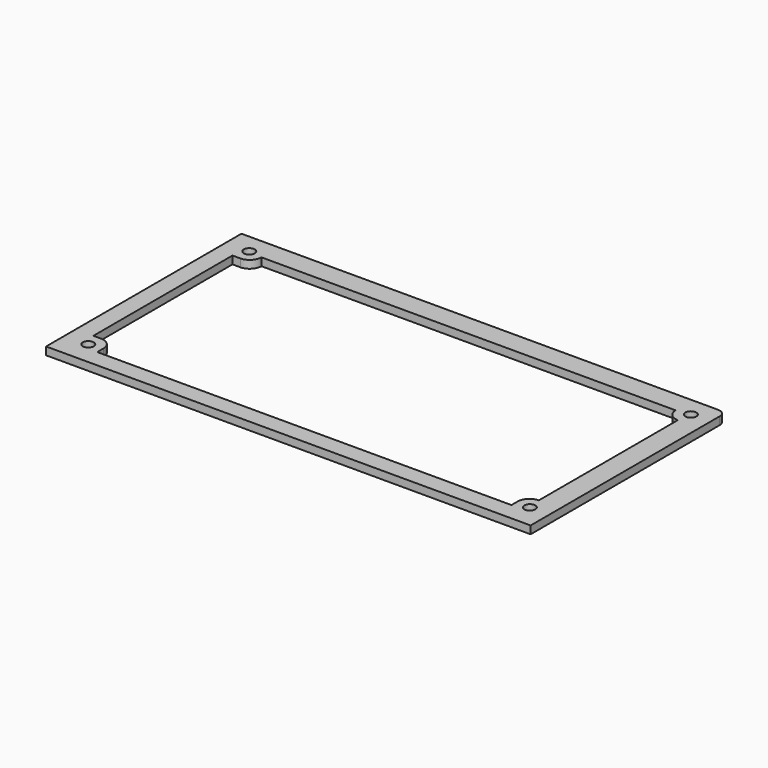
from build123d import *

# Parameters (mm, degrees)
F0_R     = 1.4
F0_W     = 4.5
F0_H     = 4.5
F1_DEPTH = 2
F2_R     = 1.4
F2_W     = 4.5
F2_H     = 4.5
F3_DEPTH = 25


with BuildPart() as f1:
    # F0 (on Top) → F1 (new body)
    with BuildSketch(Plane.XY):
        with BuildLine():
            Line((71.545826, 22.863086), (-72.454174, 22.863086))
            ThreePointArc((-72.454174, 22.863086), (-73.868388, 22.277299), (-74.454174, 20.863086))
            Line((-74.454174, 20.863086), (-74.454174, -59.136914))
            ThreePointArc((-74.454174, -59.136914), (-73.868388, -60.551128), (-72.454174, -61.136914))
            Line((-72.454174, -61.136914), (71.545826, -61.136914))
            ThreePointArc((71.545826, -61.136914), (72.960039, -60.551128), (73.545826, -59.136914))
            Line((73.545826, -59.136914), (73.545826, 20.863086))
            ThreePointArc((73.545826, 20.863086), (72.960039, 22.277299), (71.545826, 22.863086))
        make_face()
        with Locations((-69.454174, -56.136914)):
            Circle(F0_R, mode=Mode.SUBTRACT)
        with Locations((-64.137191, -49.445186)):
            Rectangle(F0_W, F0_H, mode=Mode.SUBTRACT)
        with Locations((-56.137191, -49.445186)):
            Rectangle(F0_W, F0_H, mode=Mode.SUBTRACT)
        with Locations((-64.204174, -41.886914)):
            Rectangle(F0_W, F0_H, mode=Mode.SUBTRACT)
        with Locations((-56.204174, -41.886914)):
            Rectangle(F0_W, F0_H, mode=Mode.SUBTRACT)
        with Locations((-48.137191, -49.445186)):
            Rectangle(F0_W, F0_H, mode=Mode.SUBTRACT)
        with Locations((-40.137191, -49.445186)):
            Rectangle(F0_W, F0_H, mode=Mode.SUBTRACT)
        with Locations((-48.204174, -41.886914)):
            Rectangle(F0_W, F0_H, mode=Mode.SUBTRACT)
        with Locations((-40.204174, -41.886914)):
            Rectangle(F0_W, F0_H, mode=Mode.SUBTRACT)
        with Locations((-32.137191, -49.445186)):
            Rectangle(F0_W, F0_H, mode=Mode.SUBTRACT)
        with Locations((-24.137191, -49.445186)):
            Rectangle(F0_W, F0_H, mode=Mode.SUBTRACT)
        with Locations((-32.204174, -41.886914)):
            Rectangle(F0_W, F0_H, mode=Mode.SUBTRACT)
        with Locations((-24.204174, -41.886914)):
            Rectangle(F0_W, F0_H, mode=Mode.SUBTRACT)
        with Locations((-16.137191, -49.445186)):
            Rectangle(F0_W, F0_H, mode=Mode.SUBTRACT)
        with Locations((-8.137191, -49.445186)):
            Rectangle(F0_W, F0_H, mode=Mode.SUBTRACT)
        with Locations((-16.204174, -41.886914)):
            Rectangle(F0_W, F0_H, mode=Mode.SUBTRACT)
        with Locations((-8.204174, -41.886914)):
            Rectangle(F0_W, F0_H, mode=Mode.SUBTRACT)
        with Locations((-44.454174, -33.636914)):
            Circle(F0_R, mode=Mode.SUBTRACT)
        with Locations((-0.137191, -49.445186)):
            Rectangle(F0_W, F0_H, mode=Mode.SUBTRACT)
        with Locations((7.862809, -49.445186)):
            Rectangle(F0_W, F0_H, mode=Mode.SUBTRACT)
        with Locations((15.862809, -49.445186)):
            Rectangle(F0_W, F0_H, mode=Mode.SUBTRACT)
        with Locations((-0.204174, -41.886914)):
            Rectangle(F0_W, F0_H, mode=Mode.SUBTRACT)
        with Locations((7.795826, -41.886914)):
            Rectangle(F0_W, F0_H, mode=Mode.SUBTRACT)
        with Locations((15.795826, -41.886914)):
            Rectangle(F0_W, F0_H, mode=Mode.SUBTRACT)
        with Locations((23.862809, -49.445186)):
            Rectangle(F0_W, F0_H, mode=Mode.SUBTRACT)
        with Locations((31.862809, -49.445186)):
            Rectangle(F0_W, F0_H, mode=Mode.SUBTRACT)
        with Locations((23.795826, -41.886914)):
            Rectangle(F0_W, F0_H, mode=Mode.SUBTRACT)
        with Locations((31.795826, -41.886914)):
            Rectangle(F0_W, F0_H, mode=Mode.SUBTRACT)
        with Locations((44.545826, -56.136914)):
            Circle(F0_R, mode=Mode.SUBTRACT)
        with Locations((39.862809, -49.445186)):
            Rectangle(F0_W, F0_H, mode=Mode.SUBTRACT)
        with Locations((47.862809, -49.445186)):
            Rectangle(F0_W, F0_H, mode=Mode.SUBTRACT)
        with Locations((39.795826, -41.886914)):
            Rectangle(F0_W, F0_H, mode=Mode.SUBTRACT)
        with Locations((47.795826, -41.886914)):
            Rectangle(F0_W, F0_H, mode=Mode.SUBTRACT)
        with Locations((55.862809, -49.445186)):
            Rectangle(F0_W, F0_H, mode=Mode.SUBTRACT)
        with Locations((63.862809, -49.445186)):
            Rectangle(F0_W, F0_H, mode=Mode.SUBTRACT)
        with Locations((55.795826, -41.886914)):
            Rectangle(F0_W, F0_H, mode=Mode.SUBTRACT)
        with Locations((63.795826, -41.886914)):
            Rectangle(F0_W, F0_H, mode=Mode.SUBTRACT)
        with Locations((68.545826, -33.636914)):
            Circle(F0_R, mode=Mode.SUBTRACT)
        with Locations((-69.454174, 17.863086)):
            Circle(F0_R, mode=Mode.SUBTRACT)
        with Locations((-44.454174, 17.863086)):
            Circle(F0_R, mode=Mode.SUBTRACT)
        with BuildLine():
            Line((-45.954174, -30.136914), (-45.954174, 14.363086))
            Line((-45.954174, 14.363086), (-43.954174, 14.363086))
            ThreePointArc((-43.954174, 14.363086), (-41.832854, 15.241765), (-40.954174, 17.363086))
            Line((-40.954174, 17.363086), (65.045826, 17.363086))
            ThreePointArc((65.045826, 17.363086), (65.924505, 15.241765), (68.045826, 14.363086))
            Line((68.045826, 14.363086), (68.045826, -30.136914))
            ThreePointArc((68.045826, -30.136914), (65.924505, -31.015594), (65.045826, -33.136914))
            Line((65.045826, -33.136914), (65.045826, -35.136914))
            Line((65.045826, -35.136914), (-40.954174, -35.136914))
            Line((-40.954174, -35.136914), (-40.954174, -33.136914))
            ThreePointArc((-40.954174, -33.136914), (-41.832854, -31.015594), (-43.954174, -30.136914))
            Line((-43.954174, -30.136914), (-45.954174, -30.136914))
        make_face(mode=Mode.SUBTRACT)
        with Locations((68.545826, 17.863086)):
            Circle(F0_R, mode=Mode.SUBTRACT)
    extrude(amount=F1_DEPTH)

    # F2 (on face) → F3 (cut)
    with BuildSketch(Plane.XY.offset(2)):
        with BuildLine():
            Line((-50.454174, -39.636914), (-50.454174, 22.863086))
            Line((-50.454174, 22.863086), (-72.454174, 22.863086))
            ThreePointArc((-72.454174, 22.863086), (-73.868388, 22.277299), (-74.454174, 20.863086))
            Line((-74.454174, 20.863086), (-74.454174, -59.136914))
            ThreePointArc((-74.454174, -59.136914), (-73.868388, -60.551128), (-72.454174, -61.136914))
            Line((-72.454174, -61.136914), (71.545826, -61.136914))
            ThreePointArc((71.545826, -61.136914), (72.960039, -60.551128), (73.545826, -59.136914))
            Line((73.545826, -59.136914), (73.545826, -39.636914))
            Line((73.545826, -39.636914), (66.045826, -39.636914))
            Line((66.045826, -39.636914), (66.045826, -44.136914))
            Line((66.045826, -44.136914), (61.545826, -44.136914))
            Line((61.545826, -44.136914), (61.545826, -39.636914))
            Line((61.545826, -39.636914), (58.045826, -39.636914))
            Line((58.045826, -39.636914), (58.045826, -44.136914))
            Line((58.045826, -44.136914), (53.545826, -44.136914))
            Line((53.545826, -44.136914), (53.545826, -39.636914))
            Line((53.545826, -39.636914), (50.045826, -39.636914))
            Line((50.045826, -39.636914), (50.045826, -44.136914))
            Line((50.045826, -44.136914), (45.545826, -44.136914))
            Line((45.545826, -44.136914), (45.545826, -39.636914))
            Line((45.545826, -39.636914), (42.045826, -39.636914))
            Line((42.045826, -39.636914), (42.045826, -44.136914))
            Line((42.045826, -44.136914), (37.545826, -44.136914))
            Line((37.545826, -44.136914), (37.545826, -39.636914))
            Line((37.545826, -39.636914), (34.045826, -39.636914))
            Line((34.045826, -39.636914), (34.045826, -44.136914))
            Line((34.045826, -44.136914), (29.545826, -44.136914))
            Line((29.545826, -44.136914), (29.545826, -39.636914))
            Line((29.545826, -39.636914), (26.045826, -39.636914))
            Line((26.045826, -39.636914), (26.045826, -44.136914))
            Line((26.045826, -44.136914), (21.545826, -44.136914))
            Line((21.545826, -44.136914), (21.545826, -39.636914))
            Line((21.545826, -39.636914), (18.045826, -39.636914))
            Line((18.045826, -39.636914), (18.045826, -44.136914))
            Line((18.045826, -44.136914), (13.545826, -44.136914))
            Line((13.545826, -44.136914), (13.545826, -39.636914))
            Line((13.545826, -39.636914), (10.045826, -39.636914))
            Line((10.045826, -39.636914), (10.045826, -44.136914))
            Line((10.045826, -44.136914), (5.545826, -44.136914))
            Line((5.545826, -44.136914), (5.545826, -39.636914))
            Line((5.545826, -39.636914), (2.045826, -39.636914))
            Line((2.045826, -39.636914), (2.045826, -44.136914))
            Line((2.045826, -44.136914), (-2.454174, -44.136914))
            Line((-2.454174, -44.136914), (-2.454174, -39.636914))
            Line((-2.454174, -39.636914), (-5.954174, -39.636914))
            Line((-5.954174, -39.636914), (-5.954174, -44.136914))
            Line((-5.954174, -44.136914), (-10.454174, -44.136914))
            Line((-10.454174, -44.136914), (-10.454174, -39.636914))
            Line((-10.454174, -39.636914), (-13.954174, -39.636914))
            Line((-13.954174, -39.636914), (-13.954174, -44.136914))
            Line((-13.954174, -44.136914), (-18.454174, -44.136914))
            Line((-18.454174, -44.136914), (-18.454174, -39.636914))
            Line((-18.454174, -39.636914), (-21.954174, -39.636914))
            Line((-21.954174, -39.636914), (-21.954174, -44.136914))
            Line((-21.954174, -44.136914), (-26.454174, -44.136914))
            Line((-26.454174, -44.136914), (-26.454174, -39.636914))
            Line((-26.454174, -39.636914), (-29.954174, -39.636914))
            Line((-29.954174, -39.636914), (-29.954174, -44.136914))
            Line((-29.954174, -44.136914), (-34.454174, -44.136914))
            Line((-34.454174, -44.136914), (-34.454174, -39.636914))
            Line((-34.454174, -39.636914), (-37.954174, -39.636914))
            Line((-37.954174, -39.636914), (-37.954174, -44.136914))
            Line((-37.954174, -44.136914), (-42.454174, -44.136914))
            Line((-42.454174, -44.136914), (-42.454174, -39.636914))
            Line((-42.454174, -39.636914), (-45.954174, -39.636914))
            Line((-45.954174, -39.636914), (-45.954174, -44.136914))
            Line((-45.954174, -44.136914), (-50.454174, -44.136914))
            Line((-50.454174, -44.136914), (-50.454174, -39.636914))
        make_face()
        with Locations((-69.454174, -56.136914)):
            Circle(F2_R, mode=Mode.SUBTRACT)
        with Locations((-64.137191, -49.445186)):
            Rectangle(F2_W, F2_H, mode=Mode.SUBTRACT)
        with Locations((-56.137191, -49.445186)):
            Rectangle(F2_W, F2_H, mode=Mode.SUBTRACT)
        with Locations((-64.204174, -41.886914)):
            Rectangle(F2_W, F2_H, mode=Mode.SUBTRACT)
        with Locations((-56.204174, -41.886914)):
            Rectangle(F2_W, F2_H, mode=Mode.SUBTRACT)
        with Locations((-48.137191, -49.445186)):
            Rectangle(F2_W, F2_H, mode=Mode.SUBTRACT)
        with Locations((-40.137191, -49.445186)):
            Rectangle(F2_W, F2_H, mode=Mode.SUBTRACT)
        with Locations((-32.137191, -49.445186)):
            Rectangle(F2_W, F2_H, mode=Mode.SUBTRACT)
        with Locations((-24.137191, -49.445186)):
            Rectangle(F2_W, F2_H, mode=Mode.SUBTRACT)
        with Locations((-16.137191, -49.445186)):
            Rectangle(F2_W, F2_H, mode=Mode.SUBTRACT)
        with Locations((-8.137191, -49.445186)):
            Rectangle(F2_W, F2_H, mode=Mode.SUBTRACT)
        with Locations((-0.137191, -49.445186)):
            Rectangle(F2_W, F2_H, mode=Mode.SUBTRACT)
        with Locations((7.862809, -49.445186)):
            Rectangle(F2_W, F2_H, mode=Mode.SUBTRACT)
        with Locations((15.862809, -49.445186)):
            Rectangle(F2_W, F2_H, mode=Mode.SUBTRACT)
        with Locations((23.862809, -49.445186)):
            Rectangle(F2_W, F2_H, mode=Mode.SUBTRACT)
        with Locations((31.862809, -49.445186)):
            Rectangle(F2_W, F2_H, mode=Mode.SUBTRACT)
        with Locations((39.862809, -49.445186)):
            Rectangle(F2_W, F2_H, mode=Mode.SUBTRACT)
        with Locations((44.545826, -56.136914)):
            Circle(F2_R, mode=Mode.SUBTRACT)
        with Locations((47.862809, -49.445186)):
            Rectangle(F2_W, F2_H, mode=Mode.SUBTRACT)
        with Locations((55.862809, -49.445186)):
            Rectangle(F2_W, F2_H, mode=Mode.SUBTRACT)
        with Locations((63.862809, -49.445186)):
            Rectangle(F2_W, F2_H, mode=Mode.SUBTRACT)
        with Locations((-69.454174, 17.863086)):
            Circle(F2_R, mode=Mode.SUBTRACT)
    extrude(amount=-F3_DEPTH, mode=Mode.SUBTRACT)


solid = f1.part
